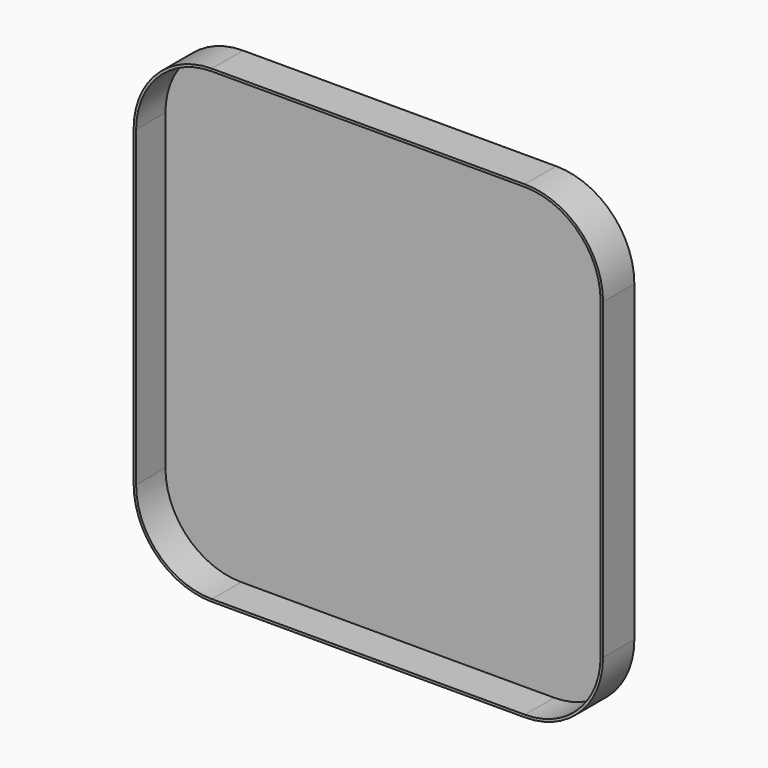
from build123d import *

# Parameters (mm, degrees)
F1_DEPTH = 25.4
F2_T     = -1.6002


with BuildPart() as f1:
    # F0 (on Front) → F1 (new body)
    with BuildSketch(Plane.XZ):
        with BuildLine():
            ThreePointArc((152.4, 101.6), (137.521024, 137.521024), (101.6, 152.4))
            Line((101.6, 152.4), (-101.6, 152.4))
            ThreePointArc((-101.6, 152.4), (-137.521024, 137.521024), (-152.4, 101.6))
            Line((-152.4, 101.6), (-152.4, -101.6))
            ThreePointArc((-152.4, -101.6), (-137.521024, -137.521024), (-101.6, -152.4))
            Line((-101.6, -152.4), (101.6, -152.4))
            ThreePointArc((101.6, -152.4), (137.521024, -137.521024), (152.4, -101.6))
            Line((152.4, -101.6), (152.4, 101.6))
        make_face()
    extrude(amount=F1_DEPTH)

    # F2
    f2_openings = [f1.faces().sort_by_distance(p)[0] for p in [
        (0, -25.4, 0),
    ]]
    offset(amount=F2_T, openings=f2_openings)


solid = f1.part
